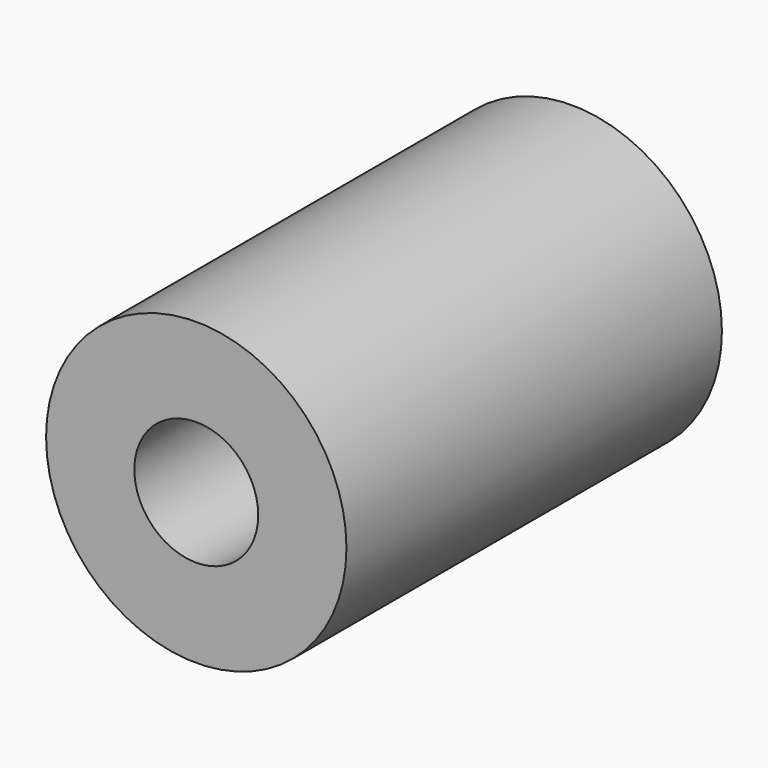
from build123d import *

# Parameters (mm, degrees)
CYLINDER011_R     = 3.3
CYLINDER011_DEPTH = 25
CYLINDER009_R     = 8
CYLINDER009_DEPTH = 25


with BuildPart() as zylinder011:
    # Cylinder011 → Cylinder011 (new body)
    with BuildSketch(Plane(origin=(80, 0, 40), x_dir=(1, 0, 0), z_dir=(0, -1, 0))):
        Circle(CYLINDER011_R)
    extrude(amount=CYLINDER011_DEPTH)


with BuildPart() as spacer01:
    # Cylinder009 → Cylinder009 (new body)
    with BuildSketch(Plane(origin=(80, 0, 40), x_dir=(1, 0, 0), z_dir=(0, -1, 0))):
        Circle(CYLINDER009_R)
    extrude(amount=CYLINDER009_DEPTH)

    # Cut006: cut Zylinder011
    add(zylinder011.part, mode=Mode.SUBTRACT)


solid = spacer01.part
